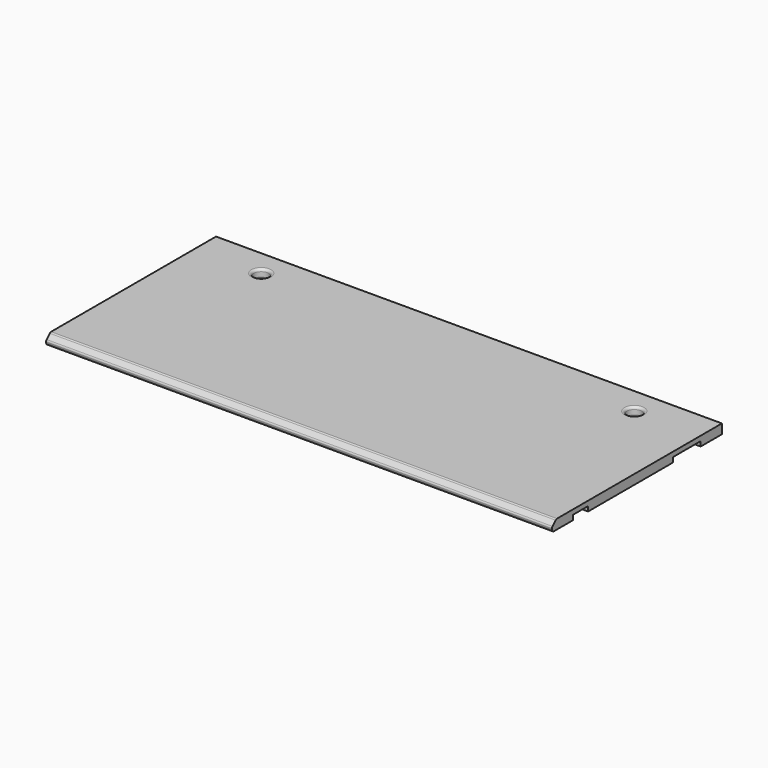
from build123d import *

# Parameters (mm, degrees)
SKETCH004_W   = 1905
SKETCH004_H   = 800
PAD001_DEPTH  = 18
SKETCH006_W   = 1905
SKETCH006_H   = 100
SKETCH006_W_2 = 90
SKETCH006_H_2 = 400
PAD002_DEPTH  = 18
SKETCH005_R   = 28
POCKET_DEPTH  = 40
FILLET002_R   = 9.2
CHAMFER_SIZE  = 20
FILLET003_R   = 9.2


with BuildPart() as part:
    # Sketch004 → Pad001 (new body)
    with BuildSketch(Plane.XY):
        Rectangle(SKETCH004_W, SKETCH004_H)
    extrude(amount=PAD001_DEPTH)

    # Sketch006 (on Face5 of Pad001) → Pad002 (join)
    with BuildSketch(Plane(origin=(0, 0, 0), x_dir=(1, 0, 0), z_dir=(0, 0, -1))):
        with Locations((0, 350)):
            Rectangle(SKETCH006_W, SKETCH006_H)
        Polygon((952.5, -300), (952.5, -400), (-952.5, -400), (-952.5, -300), (-747.5, -300), (-747.5, -250), (-657.5, -250), (-657.5, -300), (657.5, -300), (657.5, -250), (747.5, -250), (747.5, -300), align=None)
        with Locations((-907.5, 30)):
            Rectangle(SKETCH006_W_2, SKETCH006_H_2)
        with Locations((907.5, 30)):
            Rectangle(SKETCH006_W_2, SKETCH006_H_2)
    extrude(amount=PAD002_DEPTH)

    # Sketch005 (on Face6 of Pad001) → Pocket (cut)
    with BuildSketch(Plane.XY.offset(18)):
        with Locations((-702.5, 300)):
            Circle(SKETCH005_R)
        with Locations((702.5, 300)):
            Circle(SKETCH005_R)
    extrude(amount=-POCKET_DEPTH, mode=Mode.SUBTRACT)

    # Fillet002
    fillet002_edges = [part.edges().sort_by_distance(p)[0] for p in [
        (674.5, 300, -18),
        (-730.5, 300, -18),
        (-730.5, 300, 18),
        (674.5, 300, 18),
    ]]
    fillet(fillet002_edges, radius=FILLET002_R)

    # Chamfer
    chamfer_edges = [part.edges().sort_by_distance(p)[0] for p in [
        (0, -400, 18),
    ]]
    chamfer(chamfer_edges, length=CHAMFER_SIZE)

    # Fillet003
    fillet003_edges = [part.edges().sort_by_distance(p)[0] for p in [
        (0, -400, -18),
        (0, -400, -2),
        (0, -380, 18),
    ]]
    fillet(fillet003_edges, radius=FILLET003_R)


solid = part.part
